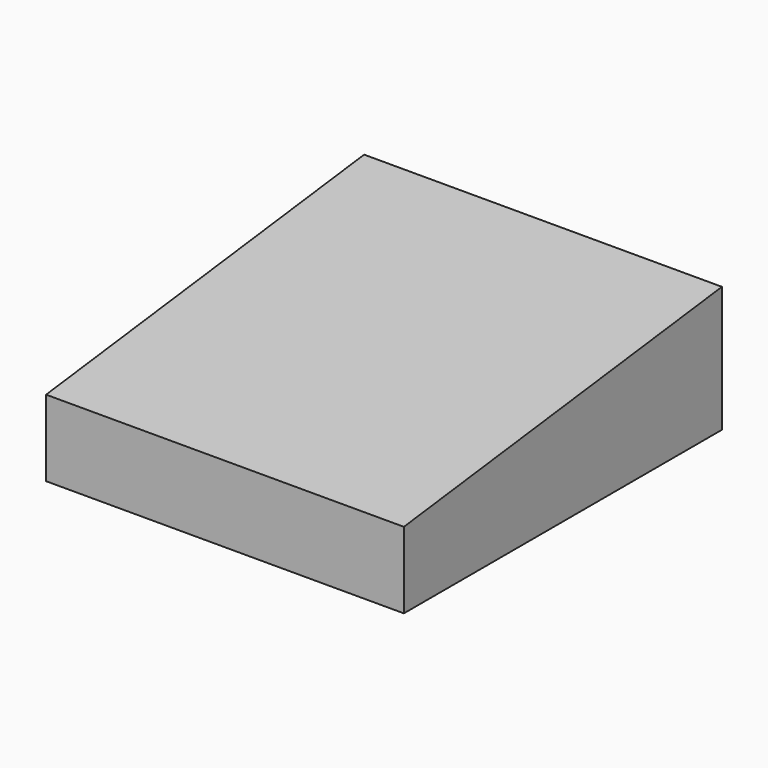
from build123d import *

# Parameters (mm, degrees)
F0_W     = 54
F0_H     = 120
F1_DEPTH = 38
F3_DEPTH = 108.001


with BuildPart() as f1:
    # F0 (on Top) → F1 (new body)
    with BuildSketch(Plane.XY):
        with Locations((-27, 0)):
            Rectangle(F0_W, F0_H)
        with Locations((27, 0)):
            Rectangle(F0_W, F0_H)
    extrude(amount=F1_DEPTH)

    # F2 (on face) → F3 (cut, through all)
    with BuildSketch(Plane(origin=(-54, 0, 0), x_dir=(0, -1, 0), z_dir=(-1, 0, 0))):
        Polygon((-60, 38), (60, 23), (60, 38), align=None)
    extrude(amount=-F3_DEPTH, mode=Mode.SUBTRACT)


solid = f1.part
